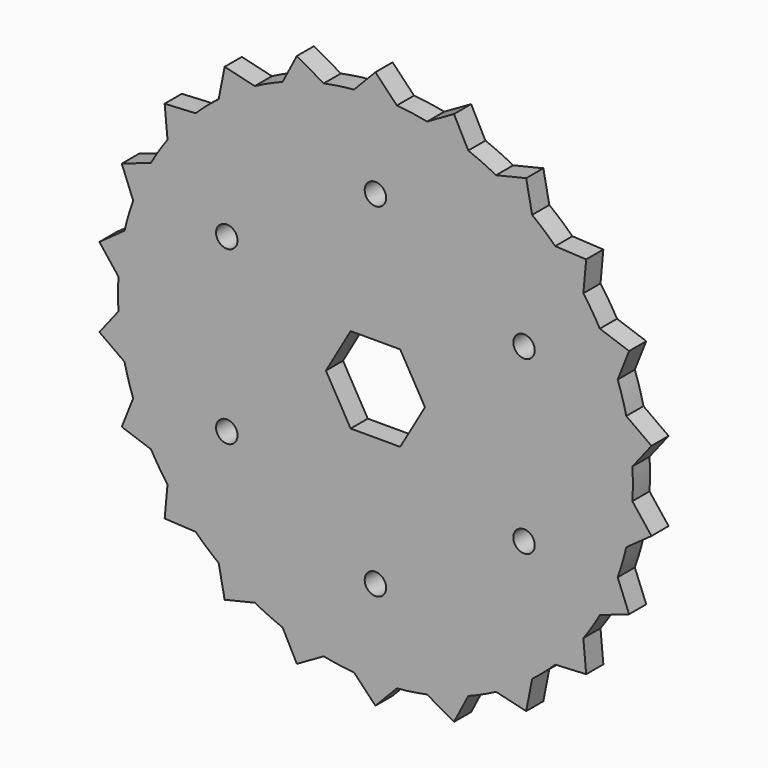
from build123d import *

# Parameters (mm, degrees)
F0_R     = 1.5875
F1_DEPTH = 3.175
F3_DEPTH = 3.176


with BuildPart() as f1:
    # F0 (on Front) → F1 (new body)
    with BuildSketch(Plane.XZ):
        with BuildLine():
            Line((-22.31495, 34.72274), (-23.197748, 30.22374))
            ThreePointArc((-23.197748, 30.22374), (-24.950194, 28.794059), (-26.614722, 27.262915))
            Line((-26.614722, 27.262915), (-31.193564, 27.029377))
            Line((-31.193564, 27.029377), (-30.773088, 22.463906))
            ThreePointArc((-30.773088, 22.463906), (-32.05176, 20.598415), (-33.21749, 18.660342))
            Line((-33.21749, 18.660342), (-37.545061, 17.146255))
            Line((-37.545061, 17.146255), (-35.855375, 12.884179))
            ThreePointArc((-35.855375, 12.884179), (-36.556682, 10.73401), (-37.129174, 8.546019))
            Line((-37.129174, 8.546019), (-40.85488, 5.874045))
            Line((-40.85488, 5.874045), (-38.032873, 2.260652))
            ThreePointArc((-38.032873, 2.260652), (-38.1, 0), (-38.032873, -2.260652))
            Line((-38.032873, -2.260652), (-40.85488, -5.874045))
            Line((-40.85488, -5.874045), (-37.129174, -8.546019))
            ThreePointArc((-37.129174, -8.546019), (-36.556682, -10.73401), (-35.855375, -12.884179))
            Line((-35.855375, -12.884179), (-37.545061, -17.146255))
            Line((-37.545061, -17.146255), (-33.21749, -18.660342))
            ThreePointArc((-33.21749, -18.660342), (-32.05176, -20.598415), (-30.773088, -22.463906))
            Line((-30.773088, -22.463906), (-31.193564, -27.029377))
            Line((-31.193564, -27.029377), (-26.614722, -27.262915))
            ThreePointArc((-26.614722, -27.262915), (-24.950194, -28.794059), (-23.197748, -30.22374))
            Line((-23.197748, -30.22374), (-22.31495, -34.72274))
            Line((-22.31495, -34.72274), (-17.855788, -33.656809))
            ThreePointArc((-17.855788, -33.656809), (-15.827312, -34.656979), (-13.743065, -35.535027))
            Line((-13.743065, -35.535027), (-11.628511, -39.603072))
            Line((-11.628511, -39.603072), (-7.650284, -37.324029))
            ThreePointArc((-7.650284, -37.324029), (-5.422195, -37.712197), (-3.175, -37.967478))
            Line((-3.175, -37.967478), (0, -41.275))
            Line((0, -41.275), (3.175, -37.967478))
            ThreePointArc((3.175, -37.967478), (5.422195, -37.712197), (7.650284, -37.324029))
            Line((7.650284, -37.324029), (11.628511, -39.603072))
            Line((11.628511, -39.603072), (13.743065, -35.535027))
            ThreePointArc((13.743065, -35.535027), (15.827312, -34.656979), (17.855788, -33.656809))
            Line((17.855788, -33.656809), (22.31495, -34.72274))
            Line((22.31495, -34.72274), (23.197748, -30.22374))
            ThreePointArc((23.197748, -30.22374), (24.950194, -28.794059), (26.614722, -27.262915))
            Line((26.614722, -27.262915), (31.193564, -27.029377))
            Line((31.193564, -27.029377), (30.773088, -22.463906))
            ThreePointArc((30.773088, -22.463906), (32.05176, -20.598415), (33.21749, -18.660342))
            Line((33.21749, -18.660342), (37.545061, -17.146255))
            Line((37.545061, -17.146255), (35.855375, -12.884179))
            ThreePointArc((35.855375, -12.884179), (36.556682, -10.73401), (37.129174, -8.546019))
            Line((37.129174, -8.546019), (40.85488, -5.874045))
            Line((40.85488, -5.874045), (38.032873, -2.260652))
            ThreePointArc((38.032873, -2.260652), (38.1, 0), (38.032873, 2.260652))
            Line((38.032873, 2.260652), (40.85488, 5.874045))
            Line((40.85488, 5.874045), (37.129174, 8.546019))
            ThreePointArc((37.129174, 8.546019), (36.556682, 10.73401), (35.855375, 12.884179))
            Line((35.855375, 12.884179), (37.545061, 17.146255))
            Line((37.545061, 17.146255), (33.21749, 18.660342))
            ThreePointArc((33.21749, 18.660342), (32.05176, 20.598415), (30.773088, 22.463906))
            Line((30.773088, 22.463906), (31.193564, 27.029377))
            Line((31.193564, 27.029377), (26.614722, 27.262915))
            ThreePointArc((26.614722, 27.262915), (24.950194, 28.794059), (23.197748, 30.22374))
            Line((23.197748, 30.22374), (22.31495, 34.72274))
            Line((22.31495, 34.72274), (17.855788, 33.656809))
            ThreePointArc((17.855788, 33.656809), (15.827312, 34.656979), (13.743065, 35.535027))
            Line((13.743065, 35.535027), (11.628511, 39.603072))
            Line((11.628511, 39.603072), (7.650284, 37.324029))
            ThreePointArc((7.650284, 37.324029), (5.422195, 37.712197), (3.175, 37.967478))
            Line((3.175, 37.967478), (0, 41.275))
            Line((0, 41.275), (-3.175, 37.967478))
            ThreePointArc((-3.175, 37.967478), (-5.422195, 37.712197), (-7.650284, 37.324029))
            Line((-7.650284, 37.324029), (-11.628511, 39.603072))
            Line((-11.628511, 39.603072), (-13.743065, 35.535027))
            ThreePointArc((-13.743065, 35.535027), (-15.827312, 34.656979), (-17.855788, 33.656809))
            Line((-17.855788, 33.656809), (-22.31495, 34.72274))
        make_face()
        with Locations((-21.997045, -12.7)):
            Circle(F0_R, mode=Mode.SUBTRACT)
        with Locations((0, -25.4)):
            Circle(F0_R, mode=Mode.SUBTRACT)
        with Locations((21.997045, -12.7)):
            Circle(F0_R, mode=Mode.SUBTRACT)
        with Locations((-21.997045, 12.7)):
            Circle(F0_R, mode=Mode.SUBTRACT)
        with Locations((21.997045, 12.7)):
            Circle(F0_R, mode=Mode.SUBTRACT)
        with Locations((0, 25.4)):
            Circle(F0_R, mode=Mode.SUBTRACT)
    extrude(amount=F1_DEPTH)

    # F2 (on face) → F3 (cut, through all)
    with BuildSketch(Plane.XZ.offset(3.175)):
        Polygon((3.666174, 6.35), (-3.666174, 6.35), (-7.332348, 0), (-3.666174, -6.35), (3.666174, -6.35), (7.332348, 0), align=None)
    extrude(amount=-F3_DEPTH, mode=Mode.SUBTRACT)


solid = f1.part
